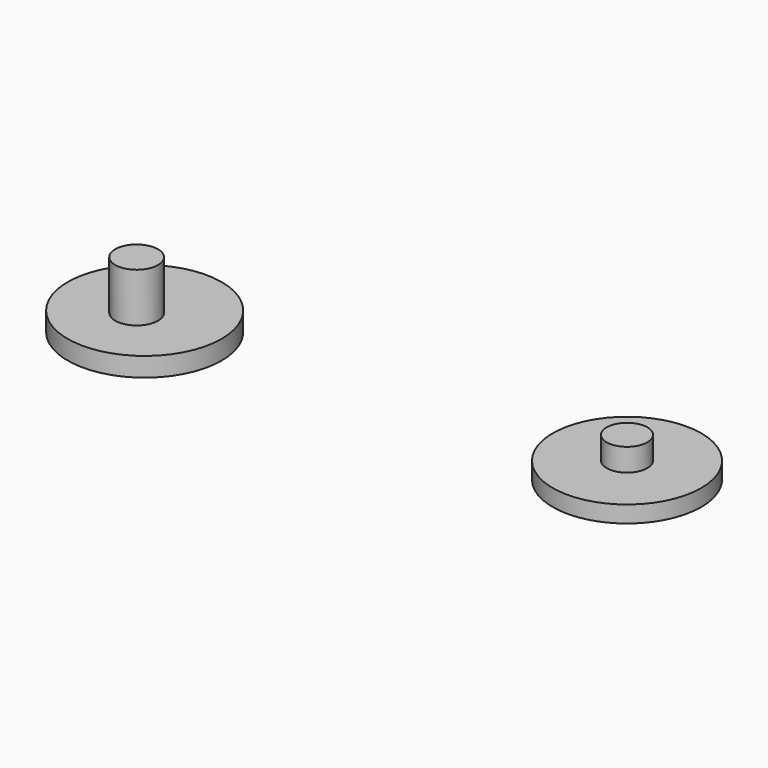
from build123d import *

# Parameters (mm, degrees)
F0_R      = 6.433913
F1_DEPTH  = 1.6
F2_R      = 1.78949
F3_DEPTH  = 4.1
F4_R      = 6.20527
F5_DEPTH  = 1.4
F6_R      = 1.699958
F7_DEPTH  = 3.8
F7_FACE_R = 1.699958
F8_DEPTH  = 1.9


with BuildPart() as f1:
    # F0 (on Top) → F1 (new body)
    with BuildSketch(Plane.XY):
        with Locations((0.197615, 0.592848)):
            Circle(F0_R)
    extrude(amount=F1_DEPTH)

    # F2 (on face) → F3 (join)
    with BuildSketch(Plane.XY.offset(1.6)):
        Circle(F2_R)
    extrude(amount=F3_DEPTH)


with BuildPart() as f5:
    # F4 (on face) → F5 (new body)
    with BuildSketch(Plane.XY.offset(1.6)):
        with Locations((39.72083, 1.580929)):
            Circle(F4_R)
    extrude(amount=F5_DEPTH)

    # F6 (on face) → F7 (join)
    with BuildSketch(Plane.XY.offset(3)):
        with Locations((39.72083, 1.580929)):
            Circle(F6_R)
    extrude(amount=F7_DEPTH)

    # F7_face (on face) → F8 (cut)
    with BuildSketch(Plane(origin=(39.72083, 1.580929, 6.8), x_dir=(1, 0, 0), z_dir=(0, 0, 1))):
        Circle(F7_FACE_R)
    extrude(amount=-F8_DEPTH, mode=Mode.SUBTRACT)


solid = Compound([f1.part, f5.part])
